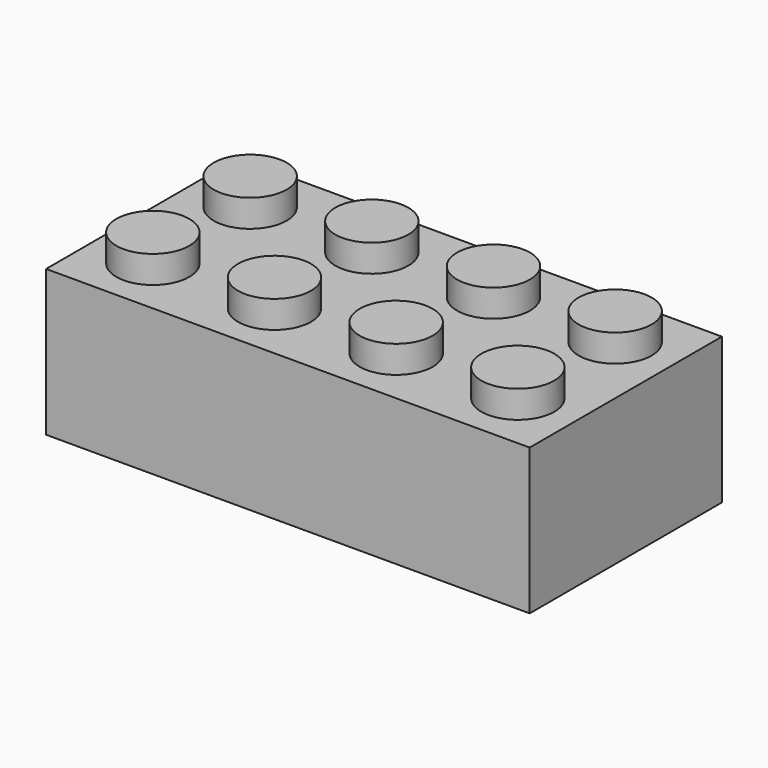
from build123d import *

# Parameters (mm, degrees)
F0_W     = 807.72
F0_H     = 401.32
F1_DEPTH = 243.84
F2_R     = 60.96
F3_DEPTH = 45.72
F4_W     = 746.76
F4_H     = 340.36
F5_DEPTH = 213.36
F6_R     = 82.55
F6_R_2   = 60.96
F7_DEPTH = 213.36


with BuildPart() as f1:
    # F0 (on Top) → F1 (new body)
    with BuildSketch(Plane.XY):
        with Locations((-403.86, 200.66)):
            Rectangle(F0_W, F0_H)
    extrude(amount=F1_DEPTH)

    # F2 (on face) → F3 (join)
    with BuildSketch(Plane.XY.offset(243.84)):
        with Locations((-708.66, 302.26)):
            Circle(F2_R)
        with Locations((-505.46, 302.26)):
            Circle(F2_R)
        with Locations((-302.26, 302.26)):
            Circle(F2_R)
        with Locations((-99.06, 302.26)):
            Circle(F2_R)
        with Locations((-99.06, 99.06)):
            Circle(F2_R)
        with Locations((-302.26, 99.06)):
            Circle(F2_R)
        with Locations((-505.46, 99.06)):
            Circle(F2_R)
        with Locations((-708.66, 99.06)):
            Circle(F2_R)
    extrude(amount=F3_DEPTH)

    # F4 (on face) → F5 (cut)
    with BuildSketch(Plane(origin=(0, 0, 0), x_dir=(1, 0, 0), z_dir=(0, 0, -1))):
        with Locations((-403.86, -200.66)):
            Rectangle(F4_W, F4_H)
    extrude(amount=-F5_DEPTH, mode=Mode.SUBTRACT)

    # F6 (on face) → F7 (join)
    with BuildSketch(Plane(origin=(0, 0, 213.36), x_dir=(1, 0, 0), z_dir=(0, 0, -1))):
        with Locations((-607.06, -200.66)):
            Circle(F6_R)
        with Locations((-607.06, -200.66)):
            Circle(F6_R_2, mode=Mode.SUBTRACT)
        with Locations((-403.86, -200.66)):
            Circle(F6_R)
        with Locations((-403.86, -200.66)):
            Circle(F6_R_2, mode=Mode.SUBTRACT)
        with Locations((-200.66, -200.66)):
            Circle(F6_R)
        with Locations((-200.66, -200.66)):
            Circle(F6_R_2, mode=Mode.SUBTRACT)
    extrude(amount=F7_DEPTH)


with BuildPart() as f8_1:
    # F8: copy of F1
    add(f1.part)


with BuildPart() as f10_1:
    # F10: copy of F1
    add(f1.part)


solid = f1.part
